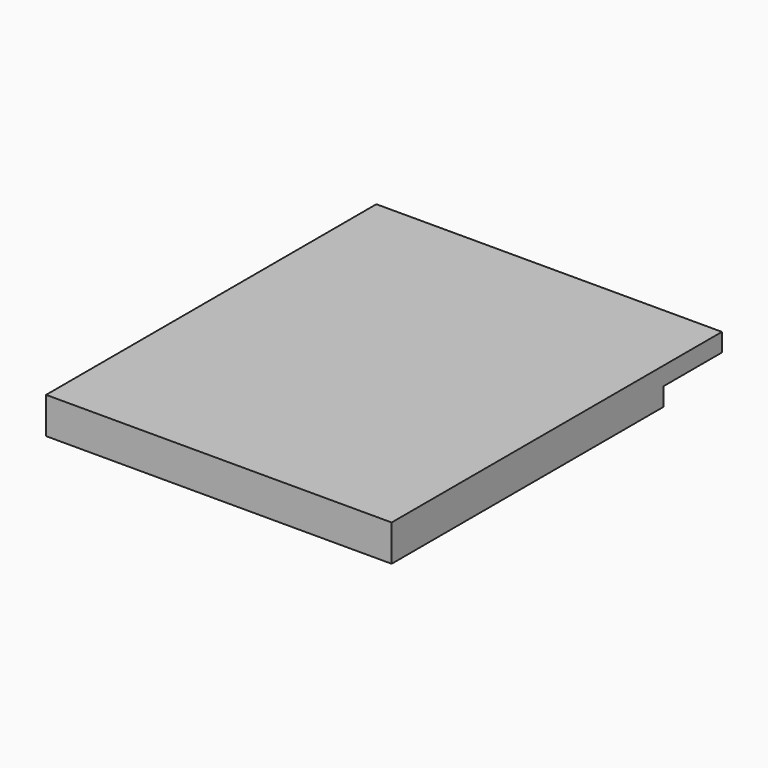
from build123d import *

# Parameters (mm, degrees)
SKETCH_W        = 9.5
SKETCH_H        = 11.35
PAD_DEPTH       = 1
POCKET002_DEPTH = 0.5
POCKET003_DEPTH = 0.5


with BuildPart() as part:
    # Sketch → Pad (new body)
    with BuildSketch(Plane.XY):
        with Locations((0, -0.825)):
            Rectangle(SKETCH_W, SKETCH_H)
    extrude(amount=PAD_DEPTH)

    # Sketch005 → Pocket002 (cut)
    with BuildSketch(Plane.XY):
        with BuildLine():
            Line((2.75, 4.85), (4.75, 4.85))
            Line((4.75, 4.85), (4.75, 2.85))
            Line((4.75, 2.85), (3.75, 2.85))
            ThreePointArc((2.75, 3.85), (3.042893, 3.142893), (3.75, 2.85))
            Line((2.75, 3.85), (2.75, 4.85))
        make_face()
    extrude(amount=POCKET002_DEPTH, mode=Mode.SUBTRACT)

    # Sketch006 → Pocket003 (cut)
    with BuildSketch(Plane.XY):
        with BuildLine():
            Line((-4.75, -2.5), (-4.75, -4.5))
            Line((-4.75, -4.5), (-3.75, -4.5))
            ThreePointArc((-3.75, -4.5), (-2.75, -3.5), (-3.75, -2.5))
            Line((-4.75, -2.5), (-3.75, -2.5))
        make_face()
    extrude(amount=POCKET003_DEPTH, mode=Mode.SUBTRACT)


solid = part.part
